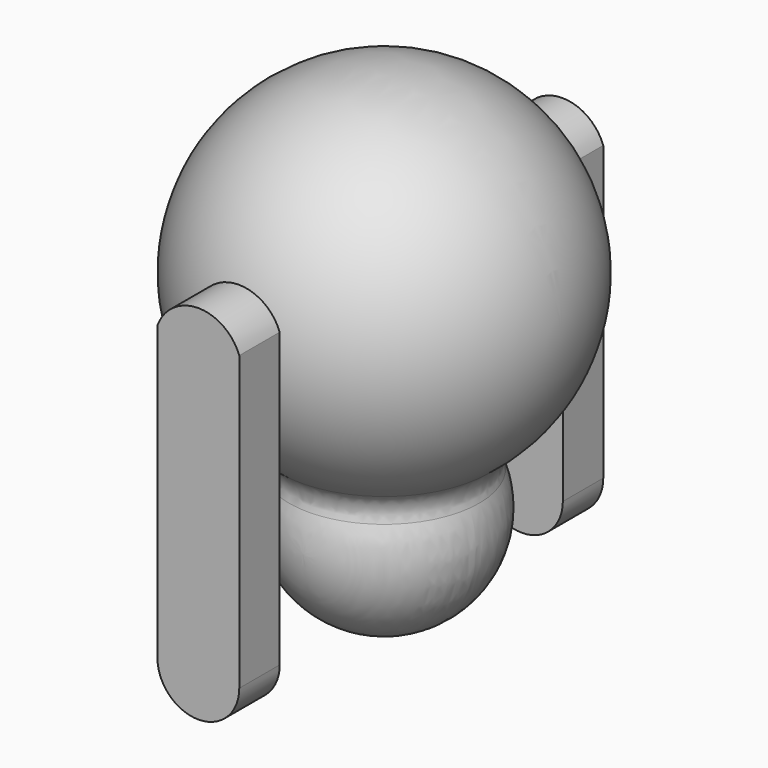
from build123d import *

# Parameters (mm, degrees)
F4_DEPTH = 10
F8_R     = 5


with BuildPart() as f1:
    # F0 (on Front) → F1 (revolve)
    with BuildSketch(Plane.XZ):
        with BuildLine():
            Line((-35, 0), (35, 0))
            ThreePointArc((35, 0), (0, 35), (-35, 0))
        make_face()
    revolve(axis=Axis((0, 0, 0), (1, 0, 0)))

    # F6 (on Right) → F7 (revolve)
    with BuildSketch(Plane.YZ):
        with BuildLine():
            Line((19.9998058356, -40.7730204107), (-19.9994579249, -41.0083988834))
            ThreePointArc((-19.9994579249, -41.0083988834), (0.1176893649, -60.8608021145), (19.9998058356, -40.7730204107))
        make_face()
    revolve(axis=Axis((0, 0.0001739553, -40.8907096471), (0, 0.9999826864, 0.0058844682)))

    # F8
    f8_edges = [f1.edges().sort_by_distance(p)[0] for p in [
        (3.774331, 16.673278, -30.541058),
    ]]
    fillet(f8_edges, radius=F8_R)


with BuildPart() as f4:
    # F3 (on offset) → F4 (new body)
    with BuildSketch(Plane.XZ.offset(35)):
        with BuildLine():
            ThreePointArc((7.3306087218, 6.2215085631), (-0.7618622947, 11.8497903444), (-8.8543333113, 6.2215085631))
            Line((-8.8543333113, 6.2215085631), (-8.8543333113, -51.718018949))
            ThreePointArc((-8.8543333113, -51.718018949), (-0.7618622947, -59.8104899656), (7.3306087218, -51.718018949))
            Line((7.3306087218, -51.718018949), (7.3306087218, 6.2215085631))
        make_face()
    extrude(amount=F4_DEPTH)


with BuildPart() as f5_1:
    # F5: instance of F4
    add(f4.part.mirror(Plane.XZ))


solid = Compound([f1.part, f4.part, f5_1.part])
